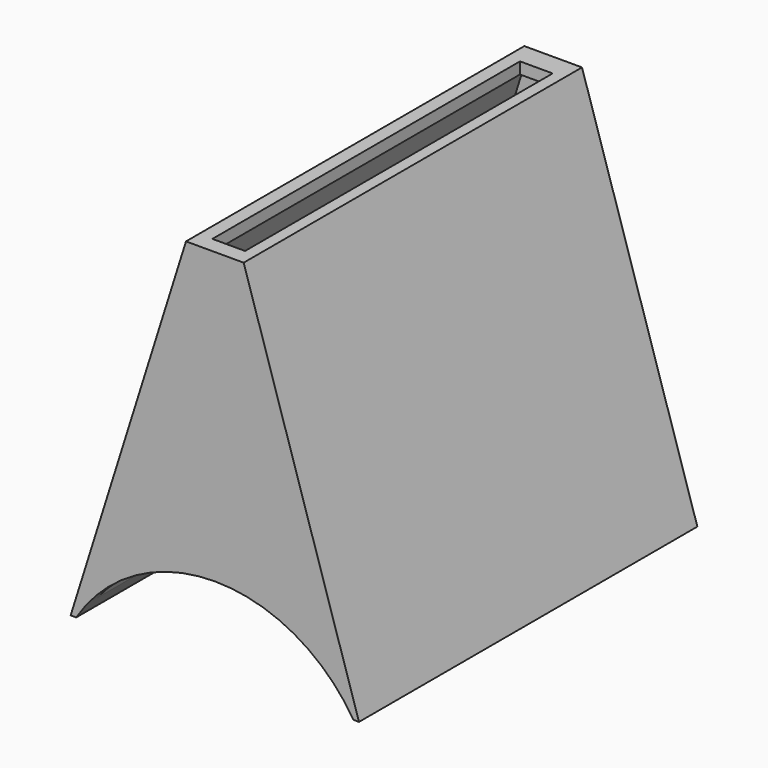
from build123d import *

# Parameters (mm, degrees)
F1_DEPTH = 44
F4_T     = -1.2
F3_R     = 17
F5_DEPTH = 25
F6_W     = 3.4
F6_H     = 40
F7_DEPTH = 50


with BuildPart() as f1:
    # F0 (on Front) → F1 (new body)
    with BuildSketch(Plane.XZ):
        Polygon((-3, 38.157568), (-15, 0), (15, 0), (3, 38.157568), align=None)
    extrude(amount=F1_DEPTH)

    # F4
    f4_openings = [f1.faces().sort_by_distance(p)[0] for p in [
        (0, -22, 0),
    ]]
    offset(amount=F4_T, openings=f4_openings)

    # F3 (on offset) → F5 (cut, symmetric)
    with BuildSketch(Plane.XZ.offset(25)):
        with Locations((0, -9)):
            Circle(F3_R)
    extrude(amount=F5_DEPTH, both=True, mode=Mode.SUBTRACT)

    # F6 (on Top) → F7 (cut)
    with BuildSketch(Plane.XY):
        with Locations((0.101443, -22.319711)):
            Rectangle(F6_W, F6_H)
    extrude(amount=F7_DEPTH, mode=Mode.SUBTRACT)


solid = f1.part
